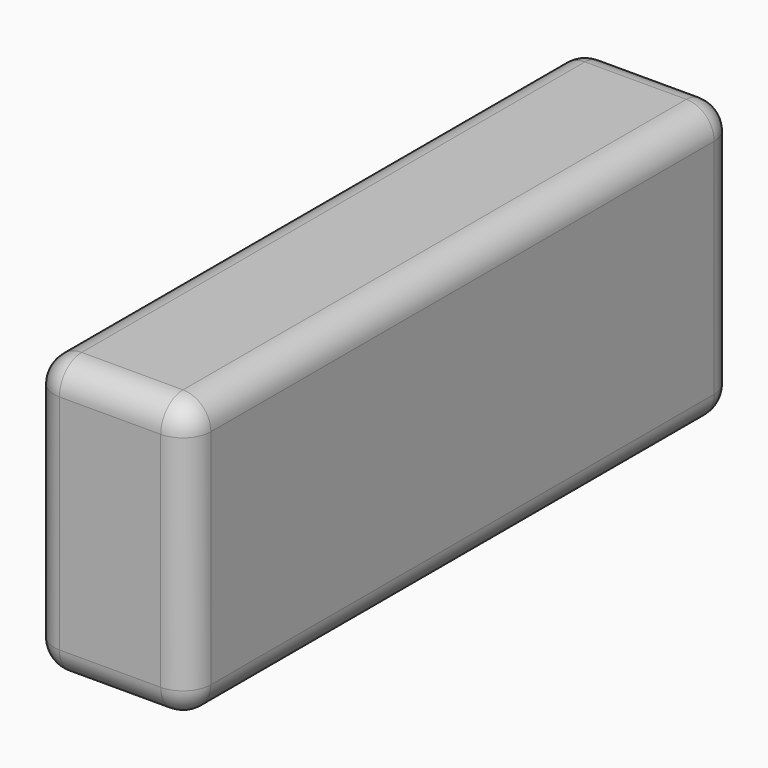
from build123d import *

# Parameters (mm, degrees)
F0_W          = 28.6512
F0_H          = 124.968007
F1_DEPTH      = 25.4
F1_DEPTH_BACK = 25.4
F2_R          = 5.08


with BuildPart() as f1:
    # F0 (on Top) → F1 (new body, two sides)
    with BuildSketch(Plane.XY) as f1_sk:
        with Locations((-58.521602, 0.762001)):
            Rectangle(F0_W, F0_H)
    extrude(amount=F1_DEPTH)
    extrude(f1_sk.sketch, amount=-F1_DEPTH_BACK)

    # F2
    f2_edges = [f1.edges().sort_by_distance(p)[0] for p in [
        (-58.521602, 63.246004, 25.4),
        (-72.847202, 0.762001, 25.4),
        (-58.521602, -61.722003, 25.4),
        (-44.196002, 0.762001, 25.4),
        (-58.521602, 63.246004, -25.4),
        (-72.847202, 0.762001, -25.4),
        (-58.521602, -61.722003, -25.4),
        (-44.196002, 0.762001, -25.4),
        (-44.196002, 63.246004, 0),
        (-44.196002, -61.722003, 0),
        (-72.847202, 63.246004, 0),
        (-72.847202, -61.722003, 0),
    ]]
    fillet(f2_edges, radius=F2_R)


with BuildPart() as f3_1:
    # F3: copy of F1
    add(f1.part)


solid = Compound([f1.part, f3_1.part])
